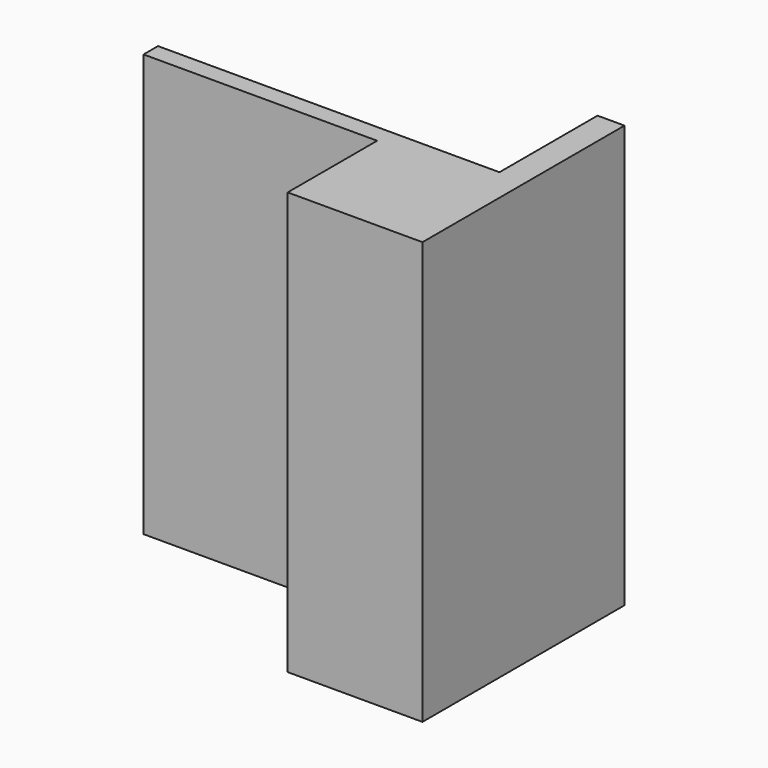
from build123d import *

# Parameters (mm, degrees)
F1_DEPTH  = 2350
F2_W      = 682
F2_H      = 50
F4_DEPTH  = 15
F3_W      = 1900
F3_H      = 50
F5_DEPTH  = 15
F6_W      = 80
F6_H      = 80
F7_DEPTH  = 10
F8_W      = 66
F8_H      = 66
F9_DEPTH  = 10
F6_H_2    = 150
F10_DEPTH = 30
F10_TAPER = 10
F11_R     = 10
F12_DEPTH = 10
F12_TAPER = -3


with BuildPart() as f1:
    # F0 (on Top) → F1 (new body)
    with BuildSketch(Plane.XY):
        Polygon((-214.7314548492, 55.9510436533), (-339.7314548492, 55.9510436533), (-339.7314548492, -44.7143382704), (960.2685451508, -44.7143382704), (960.2685451508, -667.0489563467), (1710.2685451508, -667.0489563467), (1710.2685451508, 737.9510436533), (1560.2685451508, 737.9510436533), (1560.2685451508, 55.9510436533), (-134.7314548492, 55.9510436533), align=None)
    extrude(amount=F1_DEPTH)

    # F2 (on face) → F4 (join)
    with BuildSketch(Plane(origin=(1560.2685451508, 0, 0), x_dir=(0, -1, 0), z_dir=(-1, 0, 0))):
        with Locations((-396.9510436533, 25)):
            Rectangle(F2_W, F2_H)
    extrude(amount=F4_DEPTH)

    # F3 (on face) → F5 (join)
    with BuildSketch(Plane(origin=(0, 55.9510436533, 0), x_dir=(-1, 0, 0), z_dir=(0, 1, 0))):
        with Locations((-610.2685451508, 25)):
            Rectangle(F3_W, F3_H)
    extrude(amount=F5_DEPTH)

    # F6 (on face) → F7 (join)
    with BuildSketch(Plane(origin=(0, 55.9510436533, 0), x_dir=(-1, 0, 0), z_dir=(0, 1, 0))):
        with Locations((122.3560571671, 1000)):
            Rectangle(F6_W, F6_H)
    extrude(amount=F7_DEPTH)

    # F8 (on face) → F9 (join)
    with BuildSketch(Plane(origin=(0, 65.9510436533, 0), x_dir=(-1, 0, 0), z_dir=(0, 1, 0))):
        with Locations((122.3560571671, 1000)):
            Rectangle(F8_W, F8_H)
    extrude(amount=F9_DEPTH)

    # F6 (on face) → F10 (join)
    with BuildSketch(Plane(origin=(0, 55.9510436533, 0), x_dir=(-1, 0, 0), z_dir=(0, 1, 0))):
        with Locations((122.3560571671, 200)):
            Rectangle(F6_W, F6_H_2)
    extrude(amount=F10_DEPTH, taper=F10_TAPER)

    # F11
    f11_edges = [f1.edges().sort_by_distance(p)[0] for p in [
        (-157.066248, 85.951044, 200),
        (-122.356057, 85.951044, 269.710191),
        (-87.645867, 85.951044, 200),
        (-122.356057, 85.951044, 130.289809),
    ]]
    fillet(f11_edges, radius=F11_R)

    # F6 (on face) → F12 (join)
    with BuildSketch(Plane(origin=(0, 55.9510436533, 0), x_dir=(-1, 0, 0), z_dir=(0, 1, 0))):
        with Locations((-82.0317268372, 200)):
            Rectangle(F6_W, F6_H)
    extrude(amount=F12_DEPTH, taper=F12_TAPER)


solid = f1.part
